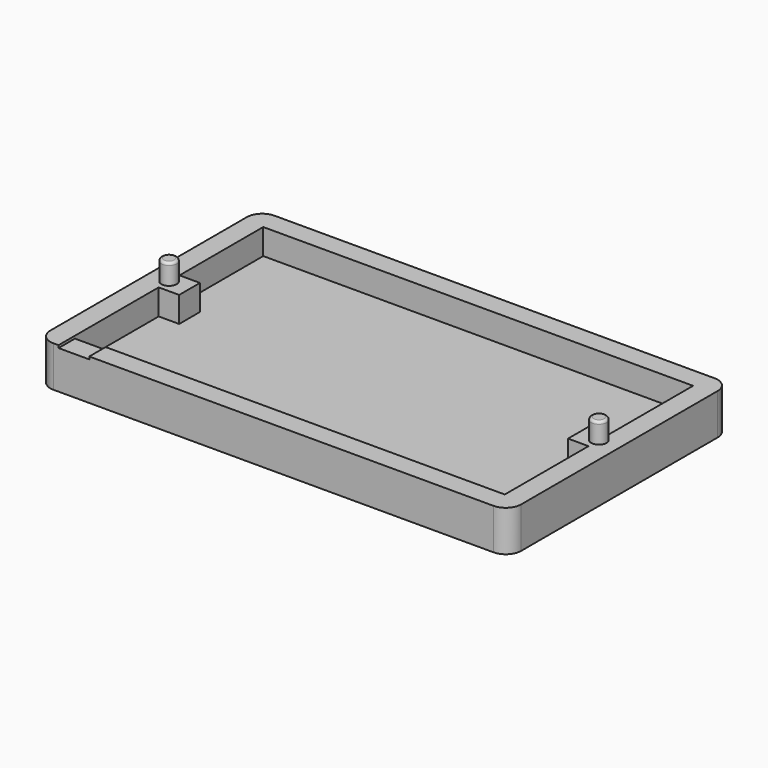
from build123d import *

# Parameters (mm, degrees)
SKETCH_W     = 46
SKETCH_H     = 27
PAD_DEPTH    = 2.5
SKETCH001_W  = 46
SKETCH001_H  = 27
PAD001_DEPTH = 1.5
SKETCH002_R  = 0.75
PAD002_DEPTH = 2
SKETCH003_W  = 3
SKETCH003_H  = 2
POCKET_DEPTH = 0.25
FILLET_R     = 0.25
FILLET001_R  = 1.5


with BuildPart() as part:
    # Sketch → Pad (new body)
    with BuildSketch(Plane.XY):
        Rectangle(SKETCH_W, SKETCH_H)
        Polygon((-21, 11.5), (21, 11.5), (21, 1.27), (19, 1.27), (19, -1.27), (21, -1.27), (21, -11.5), (-21, -11.5), (-21, -1.27), (-19, -1.27), (-19, 1.27), (-21, 1.27), align=None, mode=Mode.SUBTRACT)
    extrude(amount=PAD_DEPTH)

    # Sketch001 (on Face17 of Pad) → Pad001 (join)
    with BuildSketch(Plane(origin=(0, 0, 0), x_dir=(1, 0, 0), z_dir=(0, 0, -1))):
        Rectangle(SKETCH001_W, SKETCH001_H)
    extrude(amount=PAD001_DEPTH)

    # Sketch002 (on Face5 of Pad001) → Pad002 (join)
    with BuildSketch(Plane.XY.offset(2.5)):
        with Locations((-21, 0)):
            Circle(SKETCH002_R)
        with Locations((21, 0)):
            Circle(SKETCH002_R)
    extrude(amount=PAD002_DEPTH)

    # Sketch003 → Pocket (cut)
    with BuildSketch(Plane.XY.offset(2.5)):
        with Locations((-19.5, -12.5)):
            Rectangle(SKETCH003_W, SKETCH003_H)
    extrude(amount=-POCKET_DEPTH, mode=Mode.SUBTRACT)

    # Fillet
    fillet_edges = [part.edges().sort_by_distance(p)[0] for p in [
        (20.25, 0, 4.5),
        (-21.75, 0, 4.5),
    ]]
    fillet(fillet_edges, radius=FILLET_R)

    # Fillet001
    fillet001_edges = [part.edges().sort_by_distance(p)[0] for p in [
        (-23, -13.5, 1.25),
        (23, -13.5, 1.25),
        (-23, 13.5, 1.25),
        (23, 13.5, 1.25),
    ]]
    fillet(fillet001_edges, radius=FILLET001_R)


solid = part.part
